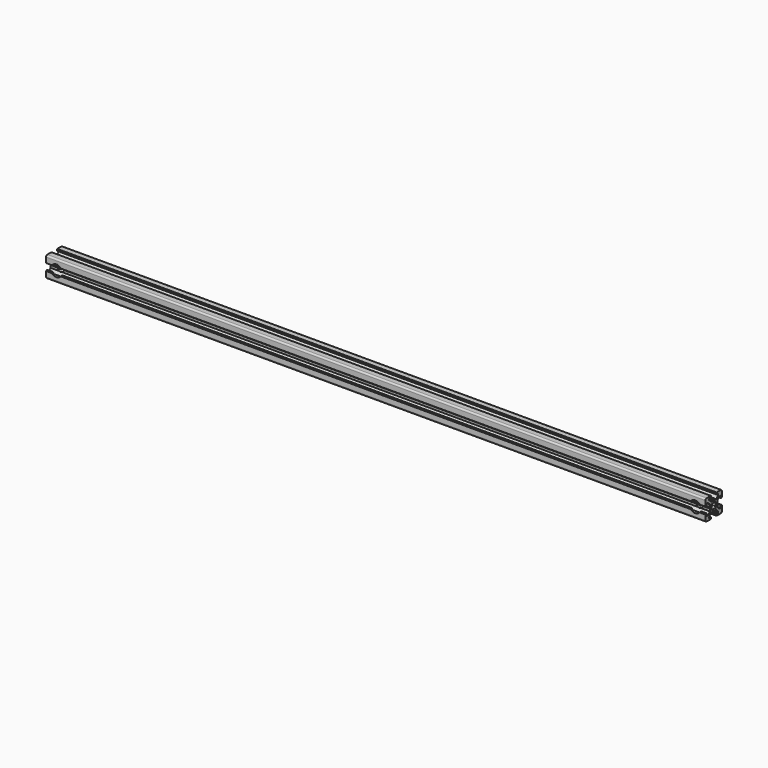
from build123d import *

# Parameters (mm, degrees)
PAD_DEPTH       = 640
SKETCH001_R     = 3.25
POCKET_DEPTH    = 21
SKETCH002_R     = 5.5
POCKET001_DEPTH = 2


with BuildPart() as part:
    # Sketch → Pad (new body)
    with BuildSketch(Plane.YZ):
        with BuildLine():
            Line((0, 4.1), (0.65, 4.5))
            Line((0.65, 4.5), (3, 4.5))
            Line((3, 4.5), (5.5, 7))
            Line((5.5, 7), (5.5, 8.5))
            Line((5.5, 8.5), (3, 8.5))
            Line((3, 8.5), (3, 9.5))
            Line((3, 9.5), (3.5, 9.5))
            Line((3.5, 9.5), (3.5, 10))
            Line((3.5, 10), (8.5, 10))
            ThreePointArc((10, 8.5), (9.56066, 9.56066), (8.5, 10))
            Line((10, 8.5), (10, 3.5))
            Line((10, 3.5), (9.5, 3.5))
            Line((9.5, 3.5), (9.5, 3))
            Line((9.5, 3), (8.5, 3))
            Line((8.5, 3), (8.5, 5.5))
            Line((8.5, 5.5), (7, 5.5))
            Line((7, 5.5), (4.5, 3))
            Line((4.5, 3), (4.5, 0.65))
            Line((4.5, 0.65), (4.1, 0))
            Line((4.5, -0.65), (4.1, 0))
            Line((4.5, -3), (4.5, -0.65))
            Line((7, -5.5), (4.5, -3))
            Line((8.5, -5.5), (7, -5.5))
            Line((8.5, -3), (8.5, -5.5))
            Line((9.5, -3), (8.5, -3))
            Line((9.5, -3.5), (9.5, -3))
            Line((10, -3.5), (9.5, -3.5))
            Line((10, -8.5), (10, -3.5))
            ThreePointArc((8.5, -10), (9.56066, -9.56066), (10, -8.5))
            Line((3.5, -10), (8.5, -10))
            Line((3.5, -9.5), (3.5, -10))
            Line((3, -9.5), (3.5, -9.5))
            Line((3, -8.5), (3, -9.5))
            Line((5.5, -8.5), (3, -8.5))
            Line((5.5, -7), (5.5, -8.5))
            Line((3, -4.5), (5.5, -7))
            Line((0.65, -4.5), (3, -4.5))
            Line((0, -4.1), (0.65, -4.5))
            Line((0, -4.1), (-0.65, -4.5))
            Line((-0.65, -4.5), (-3, -4.5))
            Line((-3, -4.5), (-5.5, -7))
            Line((-5.5, -7), (-5.5, -8.5))
            Line((-5.5, -8.5), (-3, -8.5))
            Line((-3, -8.5), (-3, -9.5))
            Line((-3, -9.5), (-3.5, -9.5))
            Line((-3.5, -9.5), (-3.5, -10))
            Line((-3.5, -10), (-8.5, -10))
            ThreePointArc((-10, -8.5), (-9.56066, -9.56066), (-8.5, -10))
            Line((-10, -8.5), (-10, -3.5))
            Line((-10, -3.5), (-9.5, -3.5))
            Line((-9.5, -3.5), (-9.5, -3))
            Line((-9.5, -3), (-8.5, -3))
            Line((-8.5, -3), (-8.5, -5.5))
            Line((-8.5, -5.5), (-7, -5.5))
            Line((-7, -5.5), (-4.5, -3))
            Line((-4.5, -3), (-4.5, -0.65))
            Line((-4.5, -0.65), (-4.1, 0))
            Line((-4.5, 0.65), (-4.1, 0))
            Line((-4.5, 3), (-4.5, 0.65))
            Line((-7, 5.5), (-4.5, 3))
            Line((-8.5, 5.5), (-7, 5.5))
            Line((-8.5, 3), (-8.5, 5.5))
            Line((-9.5, 3), (-8.5, 3))
            Line((-9.5, 3.5), (-9.5, 3))
            Line((-10, 3.5), (-9.5, 3.5))
            Line((-10, 8.5), (-10, 3.5))
            ThreePointArc((-8.5, 10), (-9.56066, 9.56066), (-10, 8.5))
            Line((-3.5, 10), (-8.5, 10))
            Line((-3.5, 9.5), (-3.5, 10))
            Line((-3, 9.5), (-3.5, 9.5))
            Line((-3, 8.5), (-3, 9.5))
            Line((-5.5, 8.5), (-3, 8.5))
            Line((-5.5, 7), (-5.5, 8.5))
            Line((-3, 4.5), (-5.5, 7))
            Line((-0.65, 4.5), (-3, 4.5))
            Line((0, 4.1), (-0.65, 4.5))
        make_face()
        with BuildLine():
            Line((1.340499, 2.401159), (1.923239, 2.983899))
            Line((1.923239, 2.983899), (2.983899, 1.923239))
            Line((2.983899, 1.923239), (2.401159, 1.340499))
            ThreePointArc((2.75, 0), (2.661361, 0.692573), (2.401159, 1.340499))
            ThreePointArc((2.401164, -1.34049), (2.661362, -0.692568), (2.75, 0))
            Line((2.983904, -1.92323), (2.401164, -1.34049))
            Line((1.923247, -2.983894), (2.983904, -1.92323))
            Line((1.340507, -2.401154), (1.923247, -2.983894))
            ThreePointArc((0, -2.75), (0.692577, -2.66136), (1.340507, -2.401154))
            ThreePointArc((-1.340507, -2.401154), (-0.692577, -2.66136), (0, -2.75))
            Line((-1.340507, -2.401154), (-1.923247, -2.983894))
            Line((-1.923247, -2.983894), (-2.983904, -1.92323))
            Line((-2.983904, -1.92323), (-2.401164, -1.34049))
            ThreePointArc((-2.75, 0), (-2.661362, -0.692568), (-2.401164, -1.34049))
            ThreePointArc((-2.401159, 1.340499), (-2.661361, 0.692572), (-2.75, 0))
            Line((-2.983899, 1.923239), (-2.401159, 1.340499))
            Line((-1.923239, 2.983899), (-2.983899, 1.923239))
            Line((-1.340499, 2.401159), (-1.923239, 2.983899))
            ThreePointArc((0, 2.75), (-0.692573, 2.661361), (-1.340499, 2.401159))
            ThreePointArc((1.340499, 2.401159), (0.692573, 2.661361), (0, 2.75))
        make_face(mode=Mode.SUBTRACT)
    extrude(amount=PAD_DEPTH)

    # Sketch001 → Pocket (cut)
    with BuildSketch(Plane.XZ.offset(10)):
        with Locations((10, 0)):
            Circle(SKETCH001_R)
        with Locations((630, 0)):
            Circle(SKETCH001_R)
    extrude(amount=-POCKET_DEPTH, mode=Mode.SUBTRACT)

    # Sketch002 → Pocket001 (cut)
    with BuildSketch(Plane.XZ.offset(10)):
        with Locations((10, 0)):
            Circle(SKETCH002_R)
        with Locations((630, 0)):
            Circle(SKETCH002_R)
    extrude(amount=-POCKET001_DEPTH, mode=Mode.SUBTRACT)


solid = part.part
